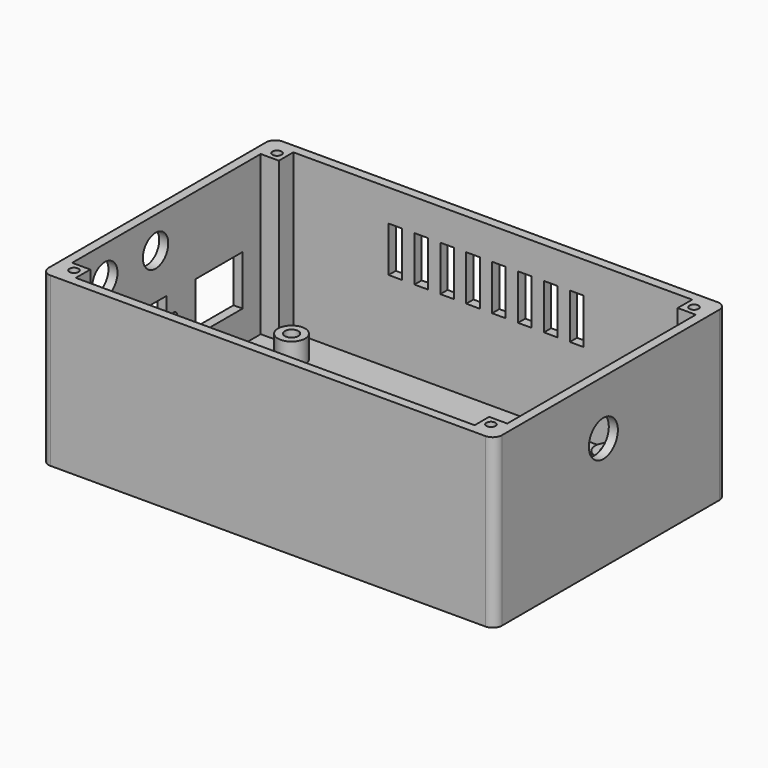
from build123d import *

# Parameters (mm, degrees)
SKETCH_W            = 100
SKETCH_H            = 64
PAD_DEPTH           = 2
SKETCH001_W         = 100
SKETCH001_H         = 64
SKETCH001_W_2       = 96
SKETCH001_H_2       = 60
PAD001_DEPTH        = 35
SKETCH002_R         = 3
SKETCH002_R_2       = 1.5
PAD002_DEPTH        = 5
FILLET_R            = 2
FILLET001_R         = 2
FILLET002_R         = 2
FILLET003_R         = 2
SKETCH003_R         = 4
POCKET_DEPTH        = 5
SKETCH004_R         = 3.5
SKETCH004_R_2       = 1
SKETCH004_W         = 13
SKETCH004_H         = 11
SKETCH004_W_2       = 20
POCKET001_DEPTH     = 5
SKETCH005_W         = 4
SKETCH005_H         = 4
PAD003_DEPTH        = 35
SKETCH006_R         = 1
POCKET002_DEPTH     = 10
SKETCH007_W         = 3
SKETCH007_H         = 10
POCKET003_DEPTH     = 5
LINEARPATTERN_COUNT = 8
LINEARPATTERN_PITCH = 5.714286


with BuildPart() as part:
    # Sketch → Pad (new body)
    with BuildSketch(Plane.XY):
        with Locations((50, 32)):
            Rectangle(SKETCH_W, SKETCH_H)
    extrude(amount=PAD_DEPTH)

    # Sketch001 → Pad001 (new body)
    with BuildSketch(Plane.XY.offset(2)):
        with Locations((50, 32)):
            Rectangle(SKETCH001_W, SKETCH001_H)
        with Locations((50, 32)):
            Rectangle(SKETCH001_W_2, SKETCH001_H_2, mode=Mode.SUBTRACT)
    extrude(amount=PAD001_DEPTH)

    # Sketch002 → Pad002 (new body)
    with BuildSketch(Plane.XY.offset(2)):
        with Locations((82, 54)):
            Circle(SKETCH002_R)
        with Locations((82, 54)):
            Circle(SKETCH002_R_2, mode=Mode.SUBTRACT)
        with Locations((12, 54)):
            Circle(SKETCH002_R)
        with Locations((12, 54)):
            Circle(SKETCH002_R_2, mode=Mode.SUBTRACT)
        with Locations((12, 8)):
            Circle(SKETCH002_R)
        with Locations((12, 8)):
            Circle(SKETCH002_R_2, mode=Mode.SUBTRACT)
        with Locations((82, 8)):
            Circle(SKETCH002_R)
        with Locations((82, 8)):
            Circle(SKETCH002_R_2, mode=Mode.SUBTRACT)
    extrude(amount=PAD002_DEPTH)

    # Fillet
    fillet_edges = [part.edges().sort_by_distance(p)[0] for p in [
        (0, 0, 18.5),
    ]]
    fillet(fillet_edges, radius=FILLET_R)

    # Fillet001
    fillet001_edges = [part.edges().sort_by_distance(p)[0] for p in [
        (100, 0, 18.5),
    ]]
    fillet(fillet001_edges, radius=FILLET001_R)

    # Fillet002
    fillet002_edges = [part.edges().sort_by_distance(p)[0] for p in [
        (100, 64, 18.5),
    ]]
    fillet(fillet002_edges, radius=FILLET002_R)

    # Fillet003
    fillet003_edges = [part.edges().sort_by_distance(p)[0] for p in [
        (0, 64, 18.5),
    ]]
    fillet(fillet003_edges, radius=FILLET003_R)

    # Sketch003 → Pocket (cut)
    with BuildSketch(Plane.YZ.offset(100)):
        with Locations((30, 25)):
            Circle(SKETCH003_R)
    extrude(amount=-POCKET_DEPTH, mode=Mode.SUBTRACT)

    # Sketch004 → Pocket001 (cut)
    with BuildSketch(Plane(origin=(0, 0, 0), x_dir=(0, -1, 0), z_dir=(-1, 0, 0))):
        with Locations((-29, 30)):
            Circle(SKETCH004_R)
        with Locations((-15, 30)):
            Circle(SKETCH004_R)
        with Locations((-34, 15)):
            Circle(SKETCH004_R_2)
        with Locations((-10, 15)):
            Circle(SKETCH004_R_2)
        with Locations((-46.5, 14.5)):
            Rectangle(SKETCH004_W, SKETCH004_H)
        with Locations((-22, 14.5)):
            Rectangle(SKETCH004_W_2, SKETCH004_H)
    extrude(amount=-POCKET001_DEPTH, mode=Mode.SUBTRACT)

    # Sketch005 → Pad003 (new body)
    with BuildSketch(Plane.XY.offset(2)):
        with Locations((4, 4)):
            Rectangle(SKETCH005_W, SKETCH005_H)
        with Locations((96, 4)):
            Rectangle(SKETCH005_W, SKETCH005_H)
        with Locations((4, 60)):
            Rectangle(SKETCH005_W, SKETCH005_H)
        with Locations((96, 60)):
            Rectangle(SKETCH005_W, SKETCH005_H)
    extrude(amount=PAD003_DEPTH)

    # Sketch006 → Pocket002 (cut)
    with BuildSketch(Plane.XY.offset(37)):
        with Locations((4, 60)):
            Circle(SKETCH006_R)
        with Locations((96, 60)):
            Circle(SKETCH006_R)
        with Locations((4, 4)):
            Circle(SKETCH006_R)
        with Locations((96, 4)):
            Circle(SKETCH006_R)
    extrude(amount=-POCKET002_DEPTH, mode=Mode.SUBTRACT)

    # Sketch007 → Pocket003 (cut)
    with BuildSketch(Plane(origin=(0, 64, 0), x_dir=(-1, 0, 0), z_dir=(0, 1, 0))):
        with Locations((-68.5, 25)):
            Rectangle(SKETCH007_W, SKETCH007_H)
    pocket003 = extrude(amount=-POCKET003_DEPTH, mode=Mode.SUBTRACT)

    # LinearPattern: Pocket003 ×8
    with Locations(*[(-i * LINEARPATTERN_PITCH, 0, 0) for i in range(1, LINEARPATTERN_COUNT)]):
        add(pocket003, mode=Mode.SUBTRACT)


solid = part.part
